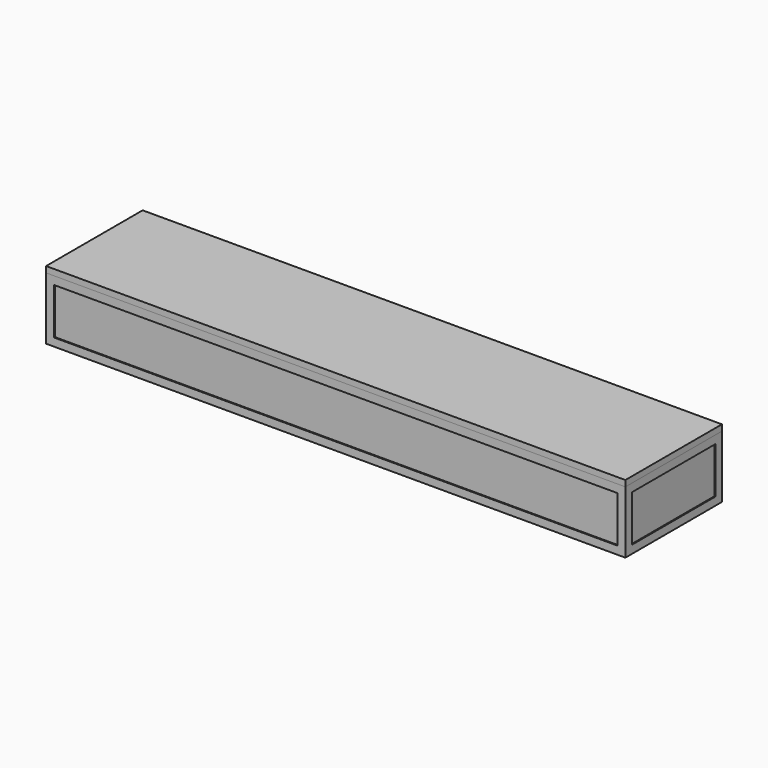
from build123d import *

# Parameters (mm, degrees)
F0_W      = 1828.8
F0_H      = 381
F1_DEPTH  = 298.45
F2_DEPTH  = 101.6
F3_W      = 1828.8
F3_H      = 381
F4_DEPTH  = 19.05
F5_W      = 330.2
F5_H      = 146.05
F6_DEPTH  = 1828.801
F7_W      = 1778
F7_H      = 146.05
F8_DEPTH  = 381.001
F10_DEPTH = 146.05


with BuildPart() as f1:
    # F0 (on Top) → F1 (new body)
    with BuildSketch(Plane.XY):
        Rectangle(F0_W, F0_H)
    extrude(amount=F1_DEPTH)

    # F0 (on Top) → F2 (cut)
    with BuildSketch(Plane.XY):
        Rectangle(F0_W, F0_H)
    extrude(amount=F2_DEPTH, mode=Mode.SUBTRACT)

    # F5 (on face) → F6 (cut, through all)
    with BuildSketch(Plane(origin=(-914.4, 0, 0), x_dir=(0, -1, 0), z_dir=(-1, 0, 0))):
        with Locations((0, 200.025)):
            Rectangle(F5_W, F5_H)
    extrude(amount=-F6_DEPTH, mode=Mode.SUBTRACT)

    # F7 (on face) → F8 (cut, through all)
    with BuildSketch(Plane.XZ.offset(190.5)):
        with Locations((0, 200.025)):
            Rectangle(F7_W, F7_H)
    extrude(amount=-F8_DEPTH, mode=Mode.SUBTRACT)


with BuildPart() as f4:
    # F3 (on face) → F4 (new body)
    with BuildSketch(Plane.XY.offset(298.45)):
        Rectangle(F3_W, F3_H)
    extrude(amount=F4_DEPTH)


with BuildPart() as f10:
    # F9 (on face) → F10 (new body, through all)
    with BuildSketch(Plane.XY.offset(127)):
        Polygon((-889, 187.325), (-889, 165.1), (-911.225, 165.1), (-911.225, -165.1), (-889, -165.1), (-889, -187.325), (889, -187.325), (889, -165.1), (911.225, -165.1), (911.225, 165.1), (889, 165.1), (889, 187.325), align=None)
    extrude(amount=F10_DEPTH)


solid = Compound([f1.part, f4.part, f10.part])
